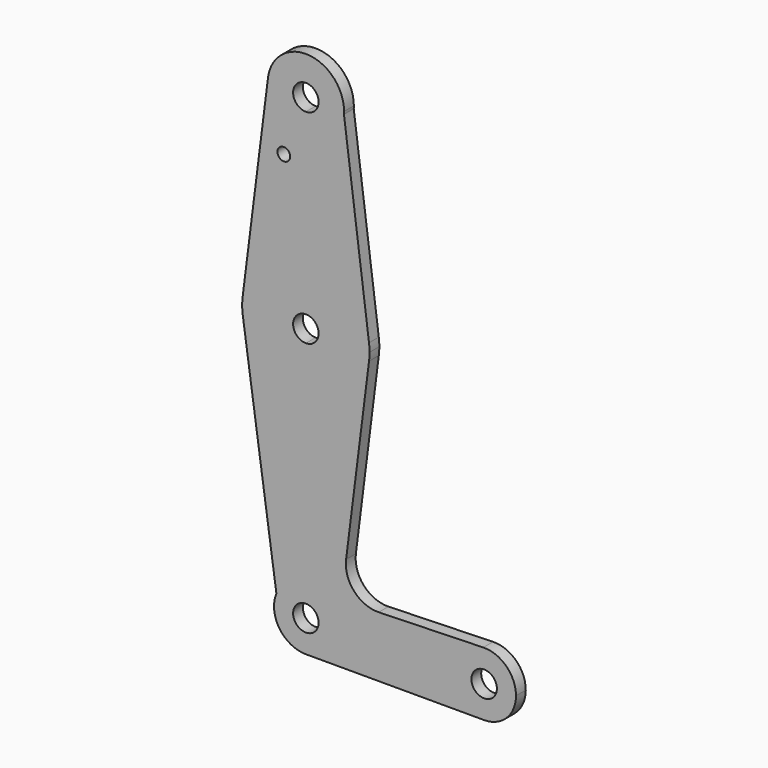
from build123d import *

# Parameters (mm, degrees)
F0_R     = 1.5875
F1_DEPTH = 3.048


with BuildPart() as f1:
    # F0 (on Front) → F1 (new body)
    with BuildSketch(Plane.XZ):
        with BuildLine():
            ThreePointArc((3.175, 0), (-2.2450640303, -2.2450640303), (0, 3.175))
            Line((0, 3.175), (0, 7.9375))
            ThreePointArc((0, 7.9375), (-4.4245915599, 6.589908632), (-7.3468104853, 3.0047099599))
            ThreePointArc((-7.3468104853, 3.0047099599), (-6.589908632, -4.4245915599), (0, -7.9375))
            ThreePointArc((0, -7.9375), (5.6126600757, -5.6126600757), (7.9375, 0))
            Line((7.9375, 0), (3.175, 0))
        make_face()
        with BuildLine():
            ThreePointArc((-7.3468104853, 3.0047099599), (-4.4245915599, 6.589908632), (0, 7.9375))
            Line((0, 7.9375), (0, 47.625))
            ThreePointArc((0, 47.625), (-10.2932687392, 51.4142958971), (-15.6726173523, 60.9732055229))
            Line((-15.6726173523, 60.9732055229), (-7.3468104853, 3.0047099599))
        make_face()
        with BuildLine():
            Line((0, 47.625), (0, 7.9375))
            ThreePointArc((0, 7.9375), (5.6126600757, 5.6126600757), (7.9375, 0))
            Line((7.9375, 0), (36.5125, 0))
            ThreePointArc((36.5125, 0), (38.7576827175, 5.5318559458), (44.2230965871, 7.9342561776))
            Line((44.2230965871, 7.9342561776), (18.1474563207, 7.1885464806))
            ThreePointArc((18.1474563207, 7.1885464806), (12.0333180798, 9.7922381017), (10.0323453348, 16.129272468))
            Line((10.0323453348, 16.129272468), (15.7504882737, 61.515625))
            ThreePointArc((15.7504882737, 61.515625), (10.5003255158, 51.59375), (0, 47.625))
        make_face()
        with BuildLine():
            Line((36.5125, 0), (7.9375, 0))
            ThreePointArc((7.9375, 0), (5.6126600757, -5.6126600757), (0, -7.9375))
            Line((0, -7.9375), (44.45, -7.9375))
            ThreePointArc((44.45, -7.9375), (38.8373399243, -5.6126600757), (36.5125, 0))
        make_face()
        with BuildLine():
            ThreePointArc((-15.6726173523, 60.9732055229), (-10.2932687392, 51.4142958971), (0, 47.625))
            Line((0, 47.625), (0, 60.325))
            ThreePointArc((0, 60.325), (-3.175, 63.5), (0, 66.675))
            Line((0, 66.675), (0, 79.375))
            ThreePointArc((0, 79.375), (-10.4995761896, 75.4069108016), (-15.7502383805, 65.4863574599))
            ThreePointArc((-15.7502383805, 65.4863574599), (-15.875, 63.5), (-15.7502383805, 61.5136425401))
            Line((-15.7502383805, 61.5136425401), (-15.6726173523, 60.9732055229))
        make_face()
        with BuildLine():
            Line((0, 60.325), (0, 47.625))
            ThreePointArc((0, 47.625), (10.5003255158, 51.59375), (15.7504882737, 61.515625))
            ThreePointArc((15.7504882737, 61.515625), (15.8438414904, 62.5058612634), (15.875, 63.5))
            ThreePointArc((15.875, 63.5), (15.8419565013, 64.5237378624), (15.742963564, 65.5432139445))
            ThreePointArc((15.742963564, 65.5432139445), (10.4780628847, 75.425846854), (0, 79.375))
            Line((0, 79.375), (0, 66.675))
            ThreePointArc((0, 66.675), (2.2450640303, 65.7450640303), (3.175, 63.5))
            ThreePointArc((3.175, 63.5), (2.2450640303, 61.2549359697), (0, 60.325))
        make_face()
        with BuildLine():
            ThreePointArc((44.2230965871, 7.9342561776), (38.7576827175, 5.5318559458), (36.5125, 0))
            ThreePointArc((36.5125, 0), (38.8373399243, -5.6126600757), (44.45, -7.9375))
            ThreePointArc((44.45, -7.9375), (50.0626600757, -5.6126600757), (52.3875, 0))
            ThreePointArc((52.3875, 0), (49.9818559458, 5.6923172825), (44.2230965871, 7.9342561776))
        make_face()
        with BuildLine():
            ThreePointArc((47.625, 0), (44.45, -3.175), (41.275, 0))
            ThreePointArc((41.275, 0), (44.45, 3.175), (47.625, 0))
        make_face(mode=Mode.SUBTRACT)
        with BuildLine():
            ThreePointArc((-15.7502383805, 61.5136425401), (-15.7137514185, 61.243090308), (-15.6726173523, 60.9732055229))
            Line((-15.6726173523, 60.9732055229), (-15.7502383805, 61.5136425401))
        make_face()
        with BuildLine():
            ThreePointArc((-15.7502383805, 65.4863574599), (-10.4995761896, 75.4069108016), (0, 79.375))
            Line((0, 79.375), (0, 104.775))
            ThreePointArc((0, 104.775), (-7.0279952587, 107.8709325992), (-9.4873396767, 115.1461742481))
            Line((-9.4873396767, 115.1461742481), (-15.7502383805, 65.4863574599))
        make_face()
        with Locations((-5.4959040135, 100.0252)):
            Circle(F0_R, mode=Mode.SUBTRACT)
        with BuildLine():
            Line((0, 104.775), (0, 79.375))
            ThreePointArc((0, 79.375), (10.4780628847, 75.425846854), (15.742963564, 65.5432139445))
            Line((15.742963564, 65.5432139445), (9.5016077683, 113.6328607214))
            ThreePointArc((9.5016077683, 113.6328607214), (6.4950413152, 107.3329300768), (0, 104.775))
        make_face()
        with BuildLine():
            ThreePointArc((-9.4873396767, 115.1461742481), (-7.0279952587, 107.8709325992), (0, 104.775))
            ThreePointArc((0, 104.775), (6.4950413152, 107.3329300768), (9.5016077683, 113.6328607214))
            ThreePointArc((9.5016077683, 113.6328607214), (9.5191501457, 113.9662253704), (9.525, 114.3))
            ThreePointArc((9.525, 114.3), (0.4235059498, 123.8155802614), (-9.4873396767, 115.1461742481))
        make_face()
        with BuildLine():
            ThreePointArc((3.175, 114.3), (2.2450640303, 112.0549359697), (0, 111.125))
            ThreePointArc((0, 111.125), (-2.2450640303, 116.5450640303), (3.175, 114.3))
        make_face(mode=Mode.SUBTRACT)
        with BuildLine():
            Line((0, 7.9375), (0, 3.175))
            ThreePointArc((0, 3.175), (2.2450640303, 2.2450640303), (3.175, 0))
            Line((3.175, 0), (7.9375, 0))
            ThreePointArc((7.9375, 0), (5.6126600757, 5.6126600757), (0, 7.9375))
        make_face()
    extrude(amount=F1_DEPTH)


solid = f1.part
